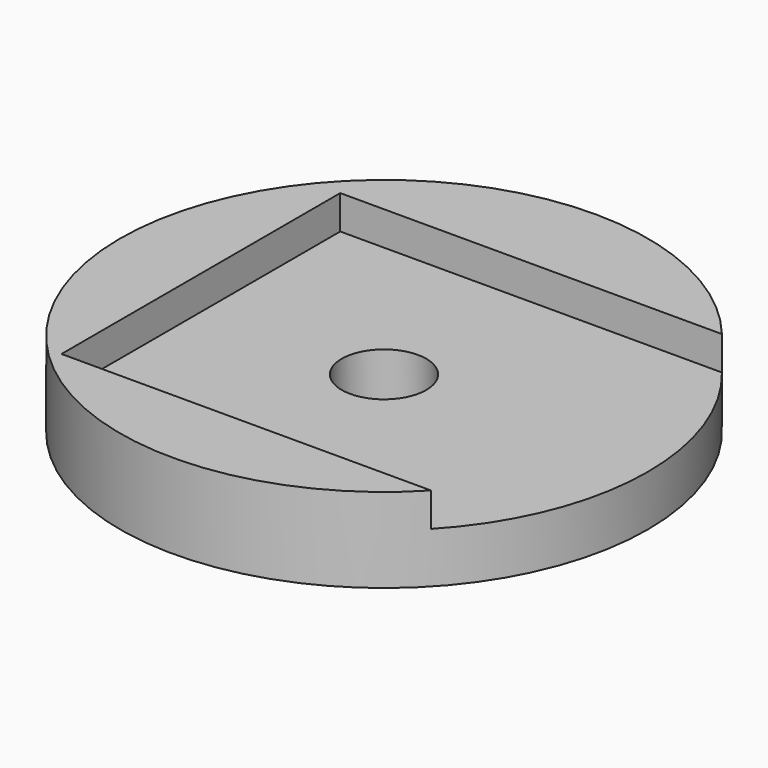
from build123d import *

# Parameters (mm, degrees)
F0_R     = 19.812
F1_DEPTH = 6.35
F2_R     = 3.175
F3_DEPTH = 25.4
F4_W     = 34.29
F4_H     = 26.162
F5_DEPTH = 2.54


with BuildPart() as f1:
    # F0 (on Top) → F1 (new body)
    with BuildSketch(Plane.XY):
        Circle(F0_R)
    extrude(amount=F1_DEPTH)

    # F2 (on face) → F3 (cut)
    with BuildSketch(Plane.XY.offset(6.35)):
        Circle(F2_R)
    extrude(amount=-F3_DEPTH, mode=Mode.SUBTRACT)

    # F4 (on face) → F5 (cut)
    with BuildSketch(Plane.XY.offset(6.35)):
        with Locations((3.81, -0.518704)):
            Rectangle(F4_W, F4_H)
    extrude(amount=-F5_DEPTH, mode=Mode.SUBTRACT)


solid = f1.part
